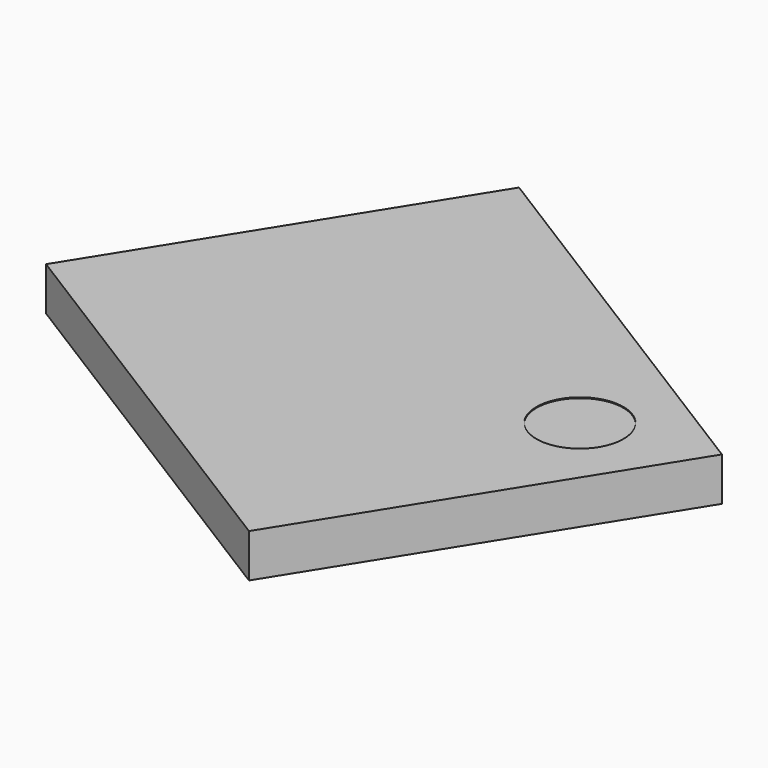
from build123d import *

# Parameters (mm, degrees)
CYLINDER085_R          = 0.5
CYLINDER085_DEPTH      = 0.01
BOX182_W               = 4.5
BOX182_H               = 5.5
BOX182_DEPTH           = 0.5
CUT091_PLACEMENT_ANGLE = 122


with BuildPart() as cylinder085:
    # Cylinder085 → Cylinder085 (new body)
    with BuildSketch(Plane(origin=(1, 4.5, 0.49), x_dir=(1, 0, 0), z_dir=(0, 0, 1))):
        Circle(CYLINDER085_R)
    extrude(amount=CYLINDER085_DEPTH)


with BuildPart() as obj1:
    # Box182 → Box182 (new body)
    with BuildSketch(Plane.XY):
        with Locations((2.25, 2.75)):
            Rectangle(BOX182_W, BOX182_H)
    extrude(amount=BOX182_DEPTH)

    # Cut091: cut Cylinder085
    add(cylinder085.part, mode=Mode.SUBTRACT)


with BuildPart() as obj1_1:
    # Cut091 placement: moved
    add(obj1.part.moved(Location((8.162853, 22.819562, 1.64))).rotate(Axis((8.162853, 22.819562, 1.64), (0, 0, -1)), CUT091_PLACEMENT_ANGLE))


solid = obj1_1.part
